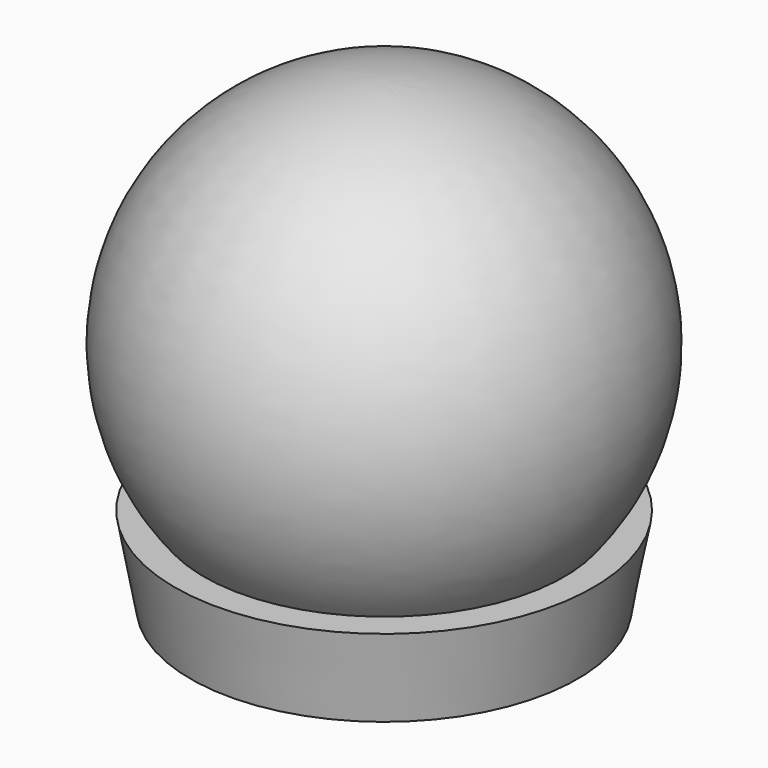
from build123d import *


with BuildPart() as f1:
    # F0 (on Front) → F1 (revolve)
    with BuildSketch(Plane.XZ):
        with BuildLine():
            Line((0, 0), (0, 50.8))
            ThreePointArc((0, 50.8), (-45.877696, 21.814606), (-39.401727, -32.064683))
            Line((-39.401727, -32.064683), (-45.751727, -32.064683))
            Line((-45.751727, -32.064683), (-42.303482, -50.8))
            Line((-42.303482, -50.8), (-37.500791, -50.8))
            Line((-37.500791, -50.8), (-35.953482, -50.8))
            Line((-35.953482, -50.8), (0, -50.8))
            Line((0, -50.8), (0, 0))
        make_face()
    revolve(axis=Axis((0, 0, -25.4), (0, 0, -1)))


solid = f1.part
